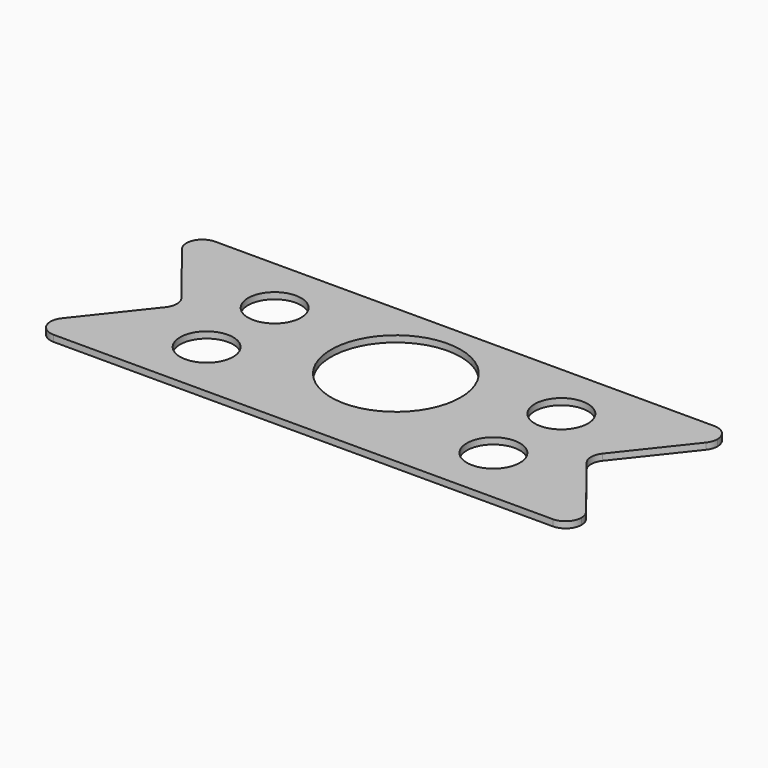
from build123d import *

# Parameters (mm, degrees)
F0_R     = 12.5
F0_R_2   = 30.5
F1_DEPTH = 3


with BuildPart() as f1:
    # F0 (on Top) → F1 (new body)
    with BuildSketch(Plane.XY):
        with BuildLine():
            ThreePointArc((-110, -47), (-112.196699, -52.303301), (-117.5, -54.5))
            Line((-117.5, -54.5), (117.5, -54.5))
            ThreePointArc((117.5, -54.5), (110.749686, -43.731475), (123.38362, -42.348869))
            Line((123.38362, -42.348869), (99.11638, -11.651131))
            ThreePointArc((99.11638, -11.651131), (97.5, -7), (99.11638, -2.348869))
            Line((99.11638, -2.348869), (123.38362, 28.348869))
            ThreePointArc((123.38362, 28.348869), (110.749686, 29.731475), (117.5, 40.5))
            Line((117.5, 40.5), (-117.5, 40.5))
            ThreePointArc((-117.5, 40.5), (-112.196699, 38.303301), (-110, 33))
            ThreePointArc((-110, 33), (-115.038004, 25.915611), (-123.38362, 28.348869))
            Line((-123.38362, 28.348869), (-99.11638, -2.348869))
            ThreePointArc((-99.11638, -2.348869), (-97.915611, -4.538004), (-97.5, -7))
            ThreePointArc((-97.5, -7), (-97.915611, -9.461996), (-99.11638, -11.651131))
            Line((-99.11638, -11.651131), (-123.38362, -42.348869))
            ThreePointArc((-123.38362, -42.348869), (-115.038004, -39.915611), (-110, -47))
        make_face()
        with Locations((-67.5, -27)):
            Circle(F0_R, mode=Mode.SUBTRACT)
        with Locations((67.5, -27)):
            Circle(F0_R, mode=Mode.SUBTRACT)
        with Locations((-67.5, 13)):
            Circle(F0_R, mode=Mode.SUBTRACT)
        Circle(F0_R_2, mode=Mode.SUBTRACT)
        with Locations((67.5, 13)):
            Circle(F0_R, mode=Mode.SUBTRACT)
        with BuildLine():
            ThreePointArc((-117.5, 40.5), (-122.803301, 38.303301), (-125, 33))
            ThreePointArc((-125, 33), (-124.584389, 30.538004), (-123.38362, 28.348869))
            ThreePointArc((-123.38362, 28.348869), (-115.038004, 25.915611), (-110, 33))
            ThreePointArc((-110, 33), (-112.196699, 38.303301), (-117.5, 40.5))
        make_face()
        with BuildLine():
            ThreePointArc((-125, -47), (-122.803301, -52.303301), (-117.5, -54.5))
            ThreePointArc((-117.5, -54.5), (-112.196699, -52.303301), (-110, -47))
            ThreePointArc((-110, -47), (-115.038004, -39.915611), (-123.38362, -42.348869))
            ThreePointArc((-123.38362, -42.348869), (-124.584389, -44.538004), (-125, -47))
        make_face()
        with BuildLine():
            ThreePointArc((123.38362, -42.348869), (110.749686, -43.731475), (117.5, -54.5))
            ThreePointArc((117.5, -54.5), (122.803301, -52.303301), (125, -47))
            ThreePointArc((125, -47), (124.584389, -44.538004), (123.38362, -42.348869))
        make_face()
        with BuildLine():
            ThreePointArc((123.38362, 28.348869), (124.584389, 30.538004), (125, 33))
            ThreePointArc((125, 33), (122.803301, 38.303301), (117.5, 40.5))
            ThreePointArc((117.5, 40.5), (110.749686, 29.731475), (123.38362, 28.348869))
        make_face()
    extrude(amount=F1_DEPTH)


solid = f1.part
